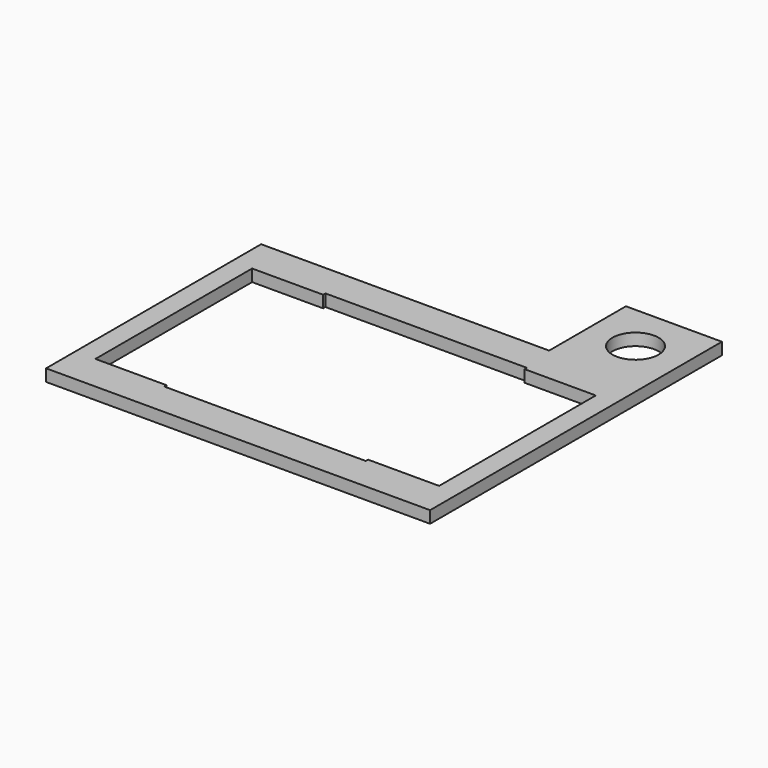
from build123d import *

# Parameters (mm, degrees)
F0_W     = 12.7
F0_H     = 12.7
F0_R     = 3.048
F1_DEPTH = 1.5875


with BuildPart() as f1:
    # F0 (on Top) → F1 (new body)
    with BuildSketch(Plane.XY):
        Polygon((-25.4, -17.78), (25.4, -17.78), (25.4, 17.78), (12.7, 17.78), (-25.4, 17.78), align=None)
        Polygon((22.733, 12.954), (22.733, -12.954), (13.335, -12.954), (13.335, -13.335), (-13.335, -13.335), (-13.335, -12.954), (-22.733, -12.954), (-22.733, 12.954), (-13.335, 12.954), (-13.335, 13.335), (13.335, 13.335), (13.335, 12.954), align=None, mode=Mode.SUBTRACT)
        with Locations((19.05, 24.13)):
            Rectangle(F0_W, F0_H)
        with Locations((19.05, 24.13)):
            Circle(F0_R, mode=Mode.SUBTRACT)
    extrude(amount=F1_DEPTH)


solid = f1.part
